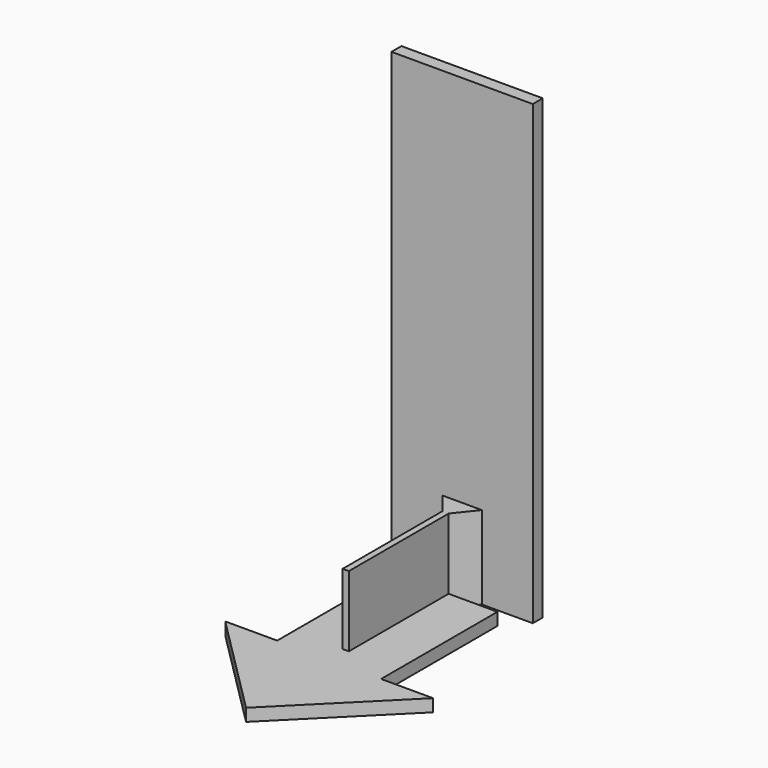
from build123d import *

# Parameters (mm, degrees)
F0_W     = 1.5
F0_H     = 30
F1_DEPTH = 3
F0_H_2   = 5
F2_DEPTH = 20
F0_H_3   = 3
F3_DEPTH = 110


with BuildPart() as f1:
    # F0 (on Top) → F1 (new body)
    with BuildSketch(Plane.XY):
        Polygon((12.5, -5), (12.5, 30), (0.75, 30), (0.75, 0), (-0.75, 0), (-0.75, 30), (-12.5, 30), (-12.5, -5), (0, -5), align=None)
        with Locations((0, 15)):
            Rectangle(F0_W, F0_H)
        Polygon((0, -30), (0, -5), (-12.5, -5), (-12.5, -17.5), align=None)
        Polygon((12.5, -17.5), (12.5, -5), (0, -5), (0, -30), align=None)
        Polygon((25, -5), (12.5, -5), (12.5, -17.5), align=None)
        Polygon((-12.5, -17.5), (-12.5, -5), (-25, -5), align=None)
    extrude(amount=F1_DEPTH)

    # F0 (on Top) → F2 (join)
    with BuildSketch(Plane.XY):
        with Locations((0, 32.5)):
            Rectangle(F0_W, F0_H_2)
        with Locations((0, 15)):
            Rectangle(F0_W, F0_H)
        Polygon((0.75, 35), (0.75, 30), (4.75, 35), align=None)
        Polygon((-4.75, 35), (-0.75, 30), (-0.75, 35), align=None)
    extrude(amount=F2_DEPTH)

    # F0 (on Top) → F3 (join)
    with BuildSketch(Plane.XY):
        Polygon((-4.75, 35), (-0.75, 35), (-0.75, 38), (-17, 38), (-17, 35), align=None)
        with Locations((0, 36.5)):
            Rectangle(F0_W, F0_H_3)
        Polygon((0.75, 38), (0.75, 35), (4.75, 35), (17, 35), (17, 38), align=None)
    extrude(amount=F3_DEPTH)


solid = f1.part
